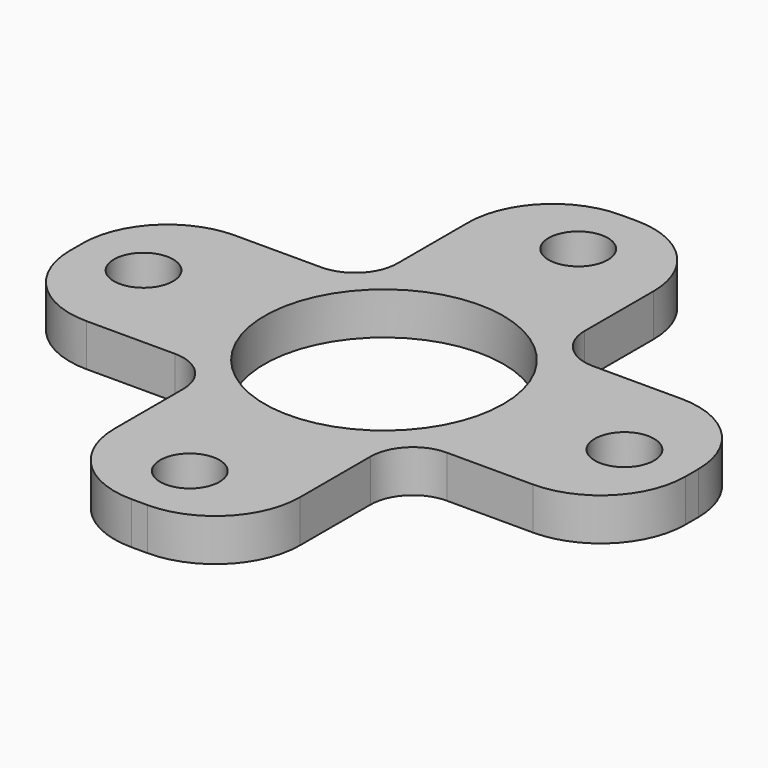
from build123d import *

# Parameters (mm, degrees)
F0_R     = 4.445
F0_R_2   = 17.907
F1_DEPTH = 6.35


with BuildPart() as f1:
    # F0 (on Top) → F1 (new body)
    with BuildSketch(Plane.XY):
        with BuildLine():
            Line((40.391009, 11.792125), (27.161882, 11.792125))
            ThreePointArc((27.161882, 11.792125), (22.671754, 13.651997), (20.811882, 18.142125))
            Line((20.811882, 18.142125), (20.811882, 31.058542))
            ThreePointArc((20.811882, 31.058542), (17.092138, 40.038798), (8.111882, 43.758542))
            Line((8.111882, 43.758542), (5.682427, 43.758542))
            ThreePointArc((5.682427, 43.758542), (-3.297829, 40.038798), (-7.017573, 31.058542))
            Line((-7.017573, 31.058542), (-7.017573, 17.829415))
            ThreePointArc((-7.017573, 17.829415), (-8.877445, 13.339287), (-13.367573, 11.479415))
            Line((-13.367573, 11.479415), (-26.283991, 11.479415))
            ThreePointArc((-26.283991, 11.479415), (-35.264247, 7.759671), (-38.983991, -1.220585))
            Line((-38.983991, -1.220585), (-38.983991, -3.65004))
            ThreePointArc((-38.983991, -3.65004), (-35.264247, -12.630296), (-26.283991, -16.35004))
            Line((-26.283991, -16.35004), (-13.054863, -16.35004))
            ThreePointArc((-13.054863, -16.35004), (-8.564735, -18.209912), (-6.704863, -22.70004))
            Line((-6.704863, -22.70004), (-6.704863, -35.616458))
            ThreePointArc((-6.704863, -35.616458), (-2.985119, -44.596714), (5.995137, -48.316458))
            Line((5.995137, -48.316458), (8.424592, -48.316458))
            ThreePointArc((8.424592, -48.316458), (17.404848, -44.596714), (21.124592, -35.616458))
            Line((21.124592, -35.616458), (21.124592, -22.38733))
            ThreePointArc((21.124592, -22.38733), (22.984464, -17.897202), (27.474592, -16.03733))
            Line((27.474592, -16.03733), (40.391009, -16.03733))
            ThreePointArc((40.391009, -16.03733), (49.371265, -12.317586), (53.091009, -3.33733))
            Line((53.091009, -3.33733), (53.091009, -0.907875))
            ThreePointArc((53.091009, -0.907875), (49.371265, 8.072381), (40.391009, 11.792125))
        make_face()
        with Locations((6.882834, -38.473555)):
            Circle(F0_R, mode=Mode.SUBTRACT)
        with Locations((43.248107, -2.449633)):
            Circle(F0_R, mode=Mode.SUBTRACT)
        with Locations((-29.141088, -2.108283)):
            Circle(F0_R, mode=Mode.SUBTRACT)
        with Locations((7.053509, -2.278958)):
            Circle(F0_R_2, mode=Mode.SUBTRACT)
        with Locations((7.224184, 33.91564)):
            Circle(F0_R, mode=Mode.SUBTRACT)
    extrude(amount=F1_DEPTH)


solid = f1.part
